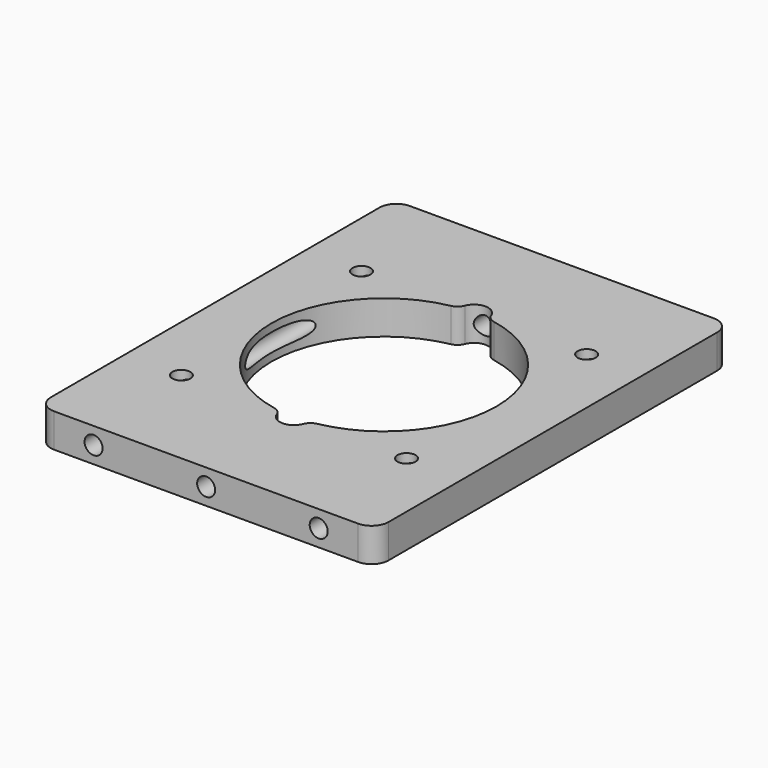
from build123d import *

# Parameters (mm, degrees)
F0_R     = 0.8
F1_DEPTH = 3
F2_R     = 0.8
F3_DEPTH = 39.501
F4_R     = 1


with BuildPart() as f1:
    # F0 (on Top) → F1 (new body)
    with BuildSketch(Plane.XY):
        with BuildLine():
            Line((13.5, 19.75), (-13.5, 19.75))
            ThreePointArc((-13.5, 19.75), (-14.56066, 19.31066), (-15, 18.25))
            Line((-15, 18.25), (-15, -18.25))
            ThreePointArc((-15, -18.25), (-14.56066, -19.31066), (-13.5, -19.75))
            Line((-13.5, -19.75), (13.5, -19.75))
            ThreePointArc((13.5, -19.75), (14.56066, -19.31066), (15, -18.25))
            Line((15, -18.25), (15, 18.25))
            ThreePointArc((15, 18.25), (14.56066, 19.31066), (13.5, 19.75))
        make_face()
        with Locations((-10, -10)):
            Circle(F0_R, mode=Mode.SUBTRACT)
        with Locations((10, -10)):
            Circle(F0_R, mode=Mode.SUBTRACT)
        with Locations((-10, 10)):
            Circle(F0_R, mode=Mode.SUBTRACT)
        with BuildLine():
            ThreePointArc((1.25, 9.921567), (7.5, 6.614378), (10, 0))
            ThreePointArc((10, 0), (7.5, -6.614378), (1.25, -9.921567))
            Line((1.25, -9.921567), (1.25, -10))
            ThreePointArc((1.25, -10), (0, -11.25), (-1.25, -10))
            Line((-1.25, -10), (-1.25, -9.921567))
            ThreePointArc((-1.25, -9.921567), (-10, 0), (-1.25, 9.921567))
            Line((-1.25, 9.921567), (-1.25, 10))
            ThreePointArc((-1.25, 10), (0, 11.25), (1.25, 10))
            Line((1.25, 10), (1.25, 9.921567))
        make_face(mode=Mode.SUBTRACT)
        with Locations((10, 10)):
            Circle(F0_R, mode=Mode.SUBTRACT)
    extrude(amount=F1_DEPTH)

    # F2 (on face) → F3 (cut, through all)
    with BuildSketch(Plane.XZ.offset(19.75)):
        with Locations((0, 1.5)):
            Circle(F2_R)
        with Locations((10, 1.5)):
            Circle(F2_R)
        with Locations((-10, 1.5)):
            Circle(F2_R)
    extrude(amount=-F3_DEPTH, mode=Mode.SUBTRACT)

    # F4
    f4_edges = [f1.edges().sort_by_distance(p)[0] for p in [
        (1.25, 9.921567, 1.5),
        (-1.25, 9.921567, 1.5),
        (-1.25, -9.921567, 1.5),
        (1.25, -9.921567, 1.5),
    ]]
    fillet(f4_edges, radius=F4_R)


solid = f1.part
